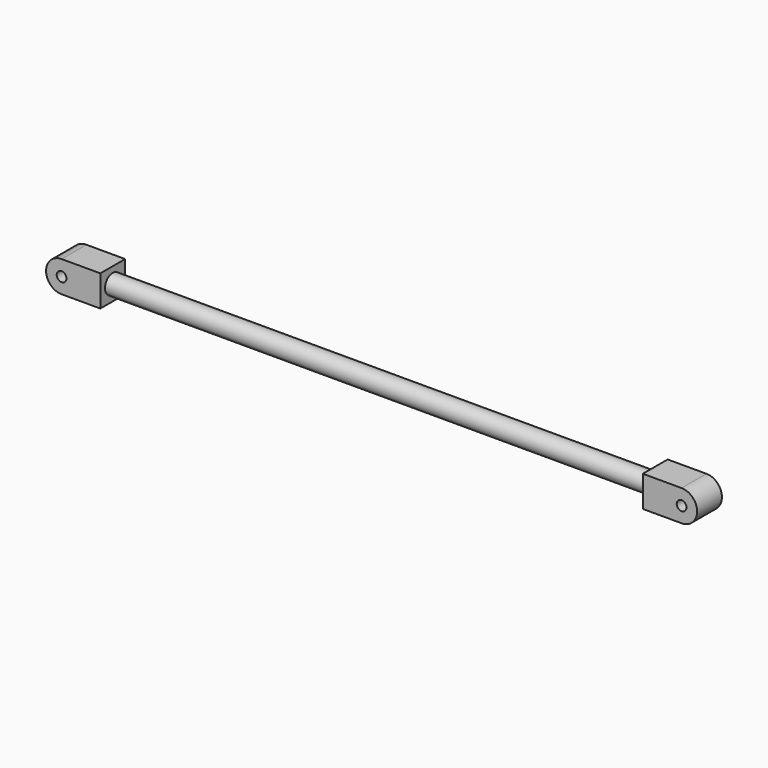
from build123d import *

# Parameters (mm, degrees)
F0_R          = 4
F1_DEPTH      = 12.7
F2_R          = 7.9375
F3_DEPTH      = 19.05
F6_R          = 7.9375
F7_DEPTH      = 241.3
F7_DEPTH_BACK = 241.3


with BuildPart() as f1:
    # F0 (on Front) → F1 (new body, symmetric)
    with BuildSketch(Plane.XZ):
        with BuildLine():
            ThreePointArc((0, -12.7), (12.7, 0), (0, 12.7))
            Line((0, 12.7), (-31.75, 12.7))
            Line((-31.75, 12.7), (-31.75, -12.7))
            Line((-31.75, -12.7), (0, -12.7))
        make_face()
        Circle(F0_R, mode=Mode.SUBTRACT)
    extrude(amount=F1_DEPTH, both=True)

    # F2 (on face) → F3 (cut)
    with BuildSketch(Plane(origin=(-31.75, 0, 0), x_dir=(0, -1, 0), z_dir=(-1, 0, 0))):
        Circle(F2_R)
    extrude(amount=-F3_DEPTH, mode=Mode.SUBTRACT)


with BuildPart() as f5_1:
    # F5: instance of F1
    add(f1.part.mirror(Plane.YZ.offset(-254)))


with BuildPart() as f7:
    # F6 (on offset) → F7 (new body, two sides)
    with BuildSketch(Plane.YZ.offset(-254)) as f7_sk:
        Circle(F6_R)
    extrude(amount=F7_DEPTH)
    extrude(f7_sk.sketch, amount=-F7_DEPTH_BACK)


solid = Compound([f1.part, f5_1.part, f7.part])
